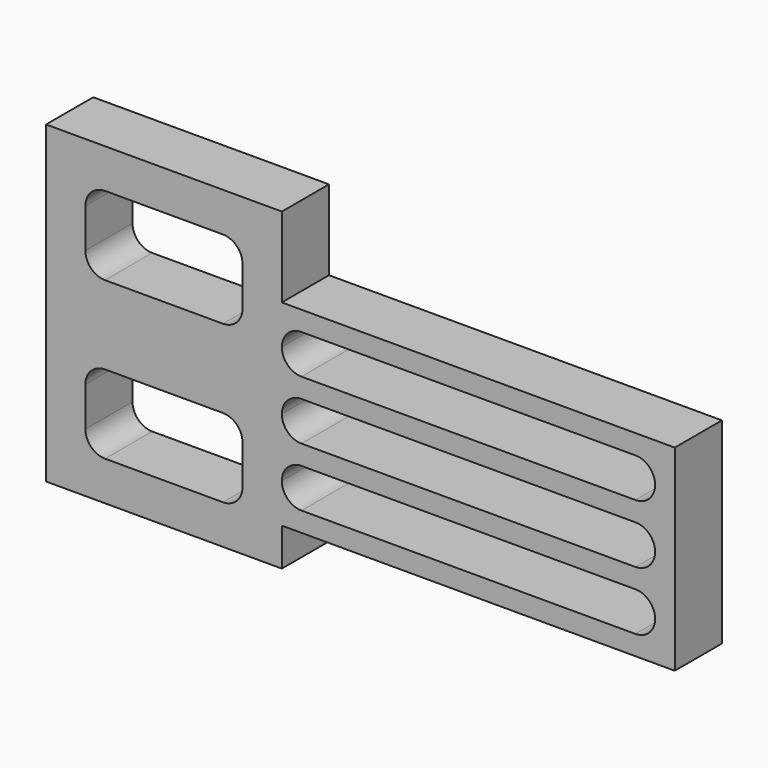
from build123d import *

# Parameters (mm, degrees)
F1_DEPTH = 30


with BuildPart() as f1:
    # F0 (on Front) → F1 (new body)
    with BuildSketch(Plane.XZ):
        Polygon((0, -100), (0, 0), (-200, 0), (-200, 40.720802), (-320, 40.720802), (-320, -119.279198), (-200, -119.279198), (-200, -100), align=None)
        with BuildLine():
            ThreePointArc((-300, -69.279198), (-297.071068, -62.208131), (-290, -59.279198))
            Line((-290, -59.279198), (-230, -59.279198))
            ThreePointArc((-230, -59.279198), (-222.928932, -62.208131), (-220, -69.279198))
            Line((-220, -69.279198), (-220, -89.279198))
            ThreePointArc((-220, -89.279198), (-222.928932, -96.350266), (-230, -99.279198))
            Line((-230, -99.279198), (-290, -99.279198))
            ThreePointArc((-290, -99.279198), (-297.071068, -96.350266), (-300, -89.279198))
            Line((-300, -89.279198), (-300, -69.279198))
        make_face(mode=Mode.SUBTRACT)
        with BuildLine():
            ThreePointArc((-200, -80), (-197.071068, -72.928932), (-190, -70))
            Line((-190, -70), (-20, -70))
            ThreePointArc((-20, -70), (-12.928932, -72.928932), (-10, -80))
            ThreePointArc((-10, -80), (-12.928932, -87.071068), (-20, -90))
            Line((-20, -90), (-190, -90))
            ThreePointArc((-190, -90), (-197.071068, -87.071068), (-200, -80))
        make_face(mode=Mode.SUBTRACT)
        with BuildLine():
            ThreePointArc((-200, -50), (-197.071068, -42.928932), (-190, -40))
            Line((-190, -40), (-20, -40))
            ThreePointArc((-20, -40), (-12.928932, -42.928932), (-10, -50))
            ThreePointArc((-10, -50), (-12.928932, -57.071068), (-20, -60))
            Line((-20, -60), (-190, -60))
            ThreePointArc((-190, -60), (-197.071068, -57.071068), (-200, -50))
        make_face(mode=Mode.SUBTRACT)
        with BuildLine():
            ThreePointArc((-300, 10.720802), (-297.071068, 17.791869), (-290, 20.720802))
            Line((-290, 20.720802), (-230, 20.720802))
            ThreePointArc((-230, 20.720802), (-222.928932, 17.791869), (-220, 10.720802))
            Line((-220, 10.720802), (-220, -9.279198))
            ThreePointArc((-220, -9.279198), (-222.928932, -16.350266), (-230, -19.279198))
            Line((-230, -19.279198), (-290, -19.279198))
            ThreePointArc((-290, -19.279198), (-297.071068, -16.350266), (-300, -9.279198))
            Line((-300, -9.279198), (-300, 10.720802))
        make_face(mode=Mode.SUBTRACT)
        with BuildLine():
            ThreePointArc((-200, -20), (-197.071068, -12.928932), (-190, -10))
            Line((-190, -10), (-20, -10))
            ThreePointArc((-20, -10), (-12.928932, -12.928932), (-10, -20))
            ThreePointArc((-10, -20), (-12.928932, -27.071068), (-20, -30))
            Line((-20, -30), (-190, -30))
            ThreePointArc((-190, -30), (-197.071068, -27.071068), (-200, -20))
        make_face(mode=Mode.SUBTRACT)
    extrude(amount=F1_DEPTH)


solid = f1.part
